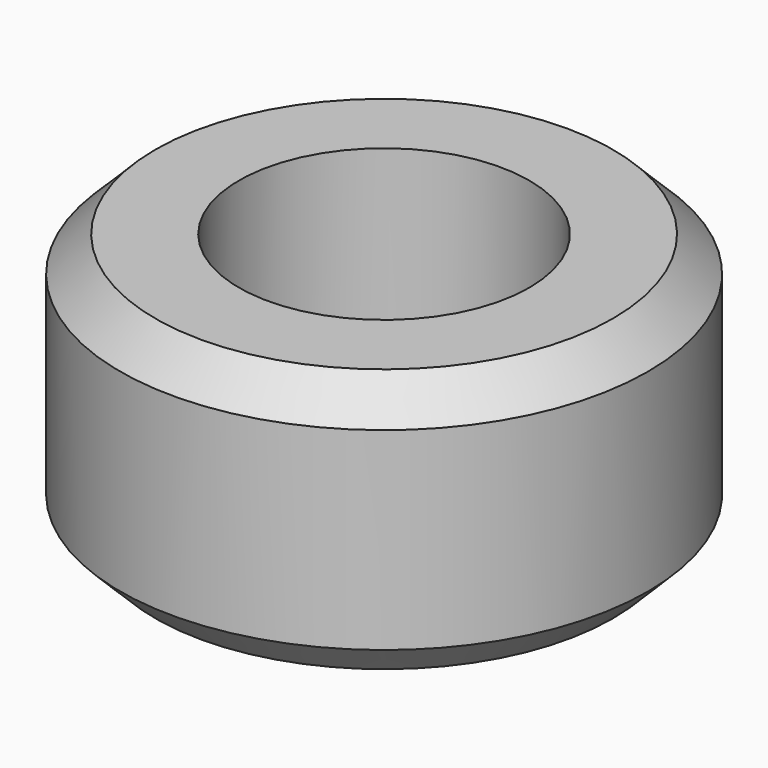
from build123d import *

# Parameters (mm, degrees)
CYLINDER020_R      = 1.65
CYLINDER020_DEPTH  = 3
CYLINDER019_R      = 3
CYLINDER019_DEPTH  = 3
CHAMFER005015_SIZE = 0.4


with BuildPart() as cylinder020:
    # Cylinder020 → Cylinder020 (new body)
    with BuildSketch(Plane.XY):
        Circle(CYLINDER020_R)
    extrude(amount=CYLINDER020_DEPTH)


with BuildPart() as f_3mm_spacer:
    # Cylinder019 → Cylinder019 (new body)
    with BuildSketch(Plane.XY):
        Circle(CYLINDER019_R)
    extrude(amount=CYLINDER019_DEPTH)

    # Cut012: cut Cylinder020
    add(cylinder020.part, mode=Mode.SUBTRACT)

    # Chamfer005015
    chamfer005015_edges = [f_3mm_spacer.edges().sort_by_distance(p)[0] for p in [
        (-3, 0, 3),
        (-3, 0, 0),
    ]]
    chamfer(chamfer005015_edges, length=CHAMFER005015_SIZE)


with BuildPart() as f_3mm_spacer_1:
    # Chamfer005015 placement: moved
    add(f_3mm_spacer.part.moved(Location((25, 56, 0))))


solid = f_3mm_spacer_1.part
